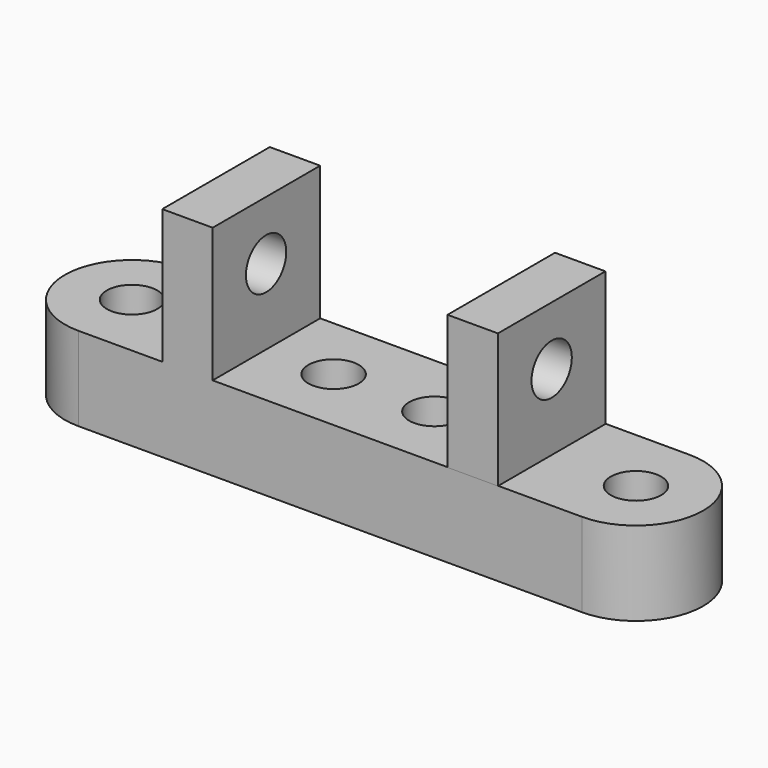
from build123d import *

# Parameters (mm, degrees)
SKETCH_R     = 1.5
PAD_DEPTH    = 5
SKETCH001_W  = 3
SKETCH001_H  = 8
PAD001_DEPTH = 8
SKETCH002_R  = 1.5
POCKET_DEPTH = 23


with BuildPart() as part:
    # Sketch → Pad (new body)
    with BuildSketch(Plane.XY):
        with BuildLine():
            Line((32.750175, 18.812472), (62.750175, 18.812472))
            ThreePointArc((62.750169, 10.812472), (66.750155, 14.812469), (62.750175, 18.812472))
            Line((32.750169, 10.812472), (62.750169, 10.812472))
            ThreePointArc((32.750175, 18.812472), (28.750176, 14.812476), (32.750169, 10.812472))
        make_face()
        with Locations((32.750176, 14.812472)):
            Circle(SKETCH_R, mode=Mode.SUBTRACT)
        with Locations((62.750155, 14.812472)):
            Circle(SKETCH_R, mode=Mode.SUBTRACT)
        with Locations((50.750155, 14.812472)):
            Circle(SKETCH_R, mode=Mode.SUBTRACT)
        with Locations((44.750176, 14.812472)):
            Circle(SKETCH_R, mode=Mode.SUBTRACT)
    extrude(amount=PAD_DEPTH)

    # Sketch001 (on Face10 of Pad) → Pad001 (join)
    with BuildSketch(Plane.XY.offset(5)):
        with Locations((39.250176, 14.812472)):
            Rectangle(SKETCH001_W, SKETCH001_H)
        with Locations((56.250155, 14.788555)):
            Rectangle(SKETCH001_W, SKETCH001_H)
    extrude(amount=PAD001_DEPTH)

    # Sketch002 (on Face20 of Pad001) → Pocket (cut)
    with BuildSketch(Plane.YZ.offset(57.750155)):
        with Locations((14.788555, 9.5)):
            Circle(SKETCH002_R)
    extrude(amount=-POCKET_DEPTH, mode=Mode.SUBTRACT)


solid = part.part
